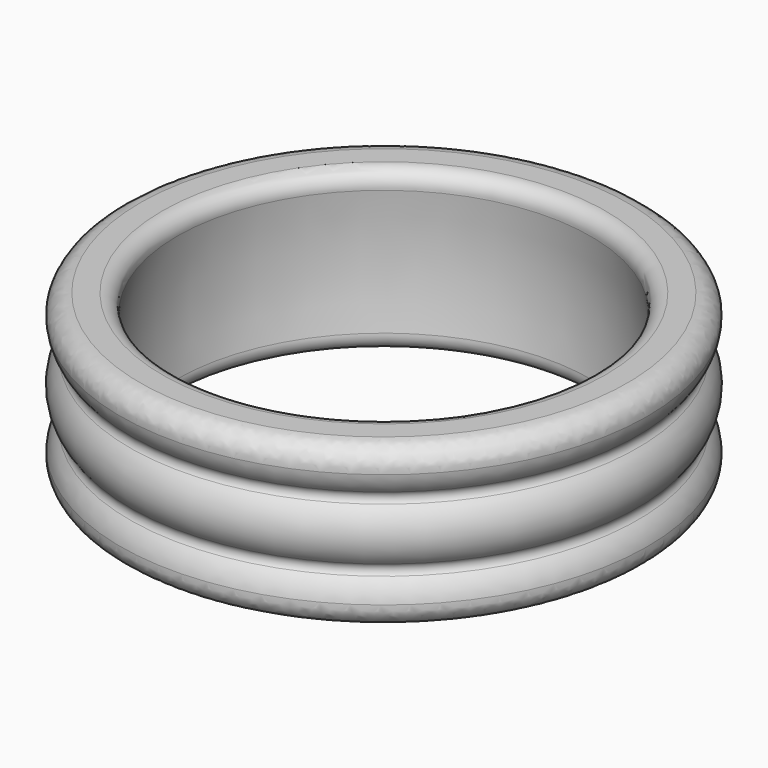
from build123d import *

# Parameters (mm, degrees)
F2_R = 1


with BuildPart() as f1:
    # F0 (on Front) → F1 (revolve)
    with BuildSketch(Plane.XZ):
        with BuildLine():
            ThreePointArc((-10.314405, -3.134314), (-10.557591, 0), (-10.314405, 3.134314))
            ThreePointArc((-10.314405, 3.134314), (-10.485664, 3.737717), (-11.055429, 4))
            Line((-11.055429, 4), (-12.94548, 4))
            ThreePointArc((-12.94548, 4), (-13.143994, 2.880137), (-12.663729, 1.849192))
            ThreePointArc((-12.663729, 1.849192), (-12.558679, 1.581769), (-12.66, 1.312912))
            ThreePointArc((-12.66, 1.312912), (-13.16, 0), (-12.66, -1.312912))
            ThreePointArc((-12.66, -1.312912), (-12.558679, -1.581769), (-12.663729, -1.849192))
            ThreePointArc((-12.663729, -1.849192), (-13.143994, -2.880137), (-12.94548, -4))
            Line((-12.94548, -4), (-11.055429, -4))
            ThreePointArc((-11.055429, -4), (-10.485664, -3.737717), (-10.314405, -3.134314))
        make_face()
    revolve(axis=Axis((0, 0, 3.78206), (0, 0, 1)))

    # F2
    f2_edges = [f1.edges().sort_by_distance(p)[0] for p in [
        (12.94548, 0, 4),
        (12.94548, 0, -4),
    ]]
    fillet(f2_edges, radius=F2_R)


solid = f1.part
